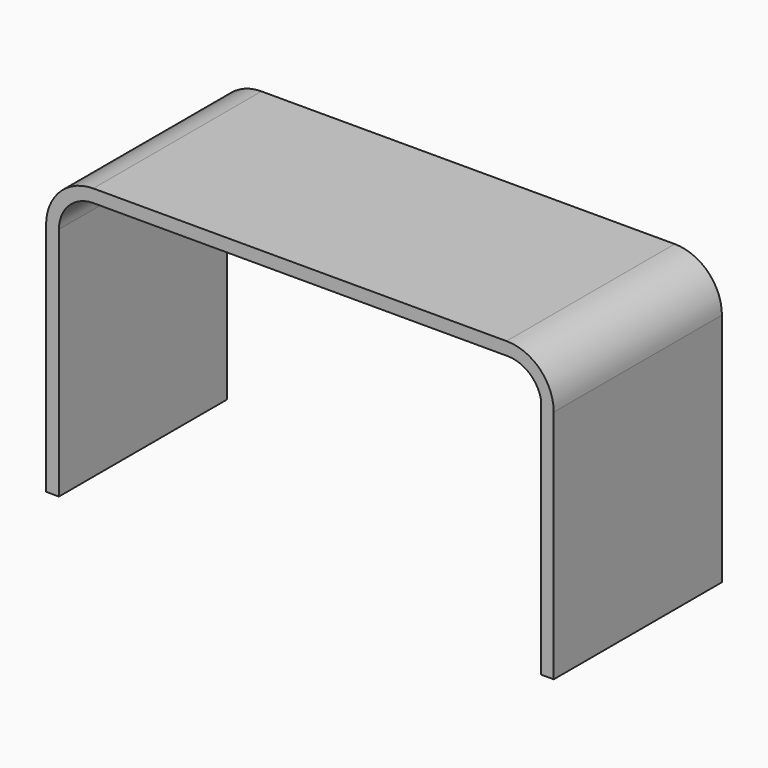
from build123d import *

# Parameters (mm, degrees)
F1_DEPTH = 147


with BuildPart() as f1:
    # F0 (on Front) → F1 (new body, symmetric)
    with BuildSketch(Plane.XZ):
        with BuildLine():
            Line((-1558.323113, 252.341221), (-1558.323113, -76.658779))
            Line((-1558.323113, -76.658779), (-1540.323113, -76.658779))
            Line((-1540.323113, -76.658779), (-1540.323113, 252.341221))
            ThreePointArc((-1540.323113, 252.341221), (-1526.264239, 286.282347), (-1492.323113, 300.341221))
            Line((-1492.323113, 300.341221), (-913.152471, 300.341221))
            ThreePointArc((-913.152471, 300.341221), (-883.16695, 289.822797), (-866.323113, 262.87741))
            Line((-866.323113, 262.87741), (-866.323113, -76.658779))
            Line((-866.323113, -76.658779), (-848.323113, -76.658779))
            Line((-848.323113, -76.658779), (-848.323113, 252.341221))
            ThreePointArc((-848.323113, 252.341221), (-867.654066, 299.010269), (-914.323113, 318.341221))
            Line((-914.323113, 318.341221), (-1492.323113, 318.341221))
            ThreePointArc((-1492.323113, 318.341221), (-1538.992161, 299.010269), (-1558.323113, 252.341221))
        make_face()
    extrude(amount=F1_DEPTH, both=True)


solid = f1.part
